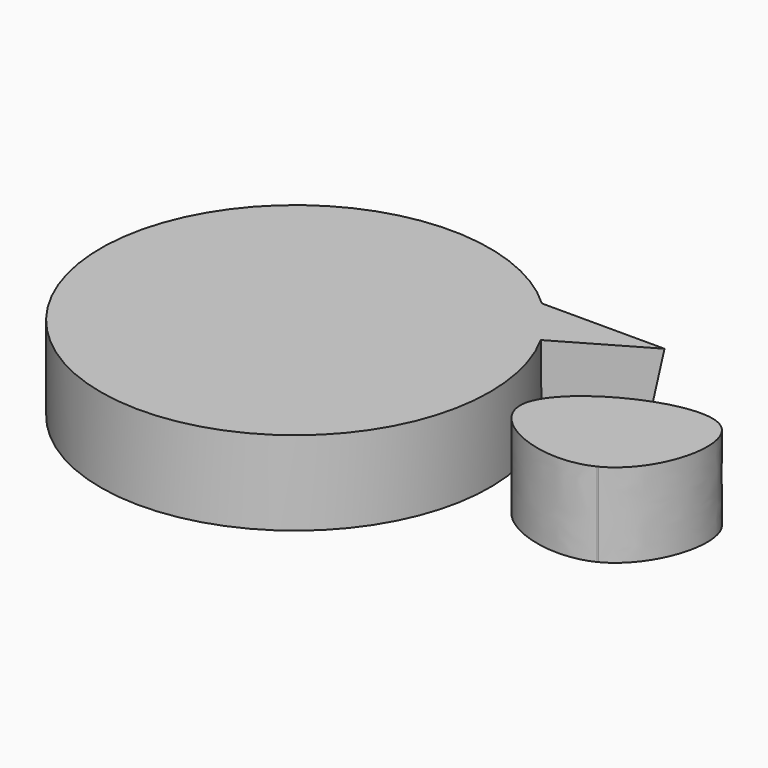
from build123d import *

# Parameters (mm, degrees)
F1_DEPTH = 25.4
F1_TAPER = -3
F2_R     = 58.8161051618
F3_DEPTH = 25.4
F5_DEPTH = 25.4


with BuildPart() as f1:
    # F0 (on Top) → F1 (new body)
    with BuildSketch(Plane.XY):
        Polygon((72.1950531006, 41.6988953948), (21.782964468, 41.6988953948), (0, 0), align=None)
    extrude(amount=F1_DEPTH, taper=F1_TAPER)

    # F2 (on Top) → F3 (join)
    with BuildSketch(Plane.XY):
        Circle(F2_R)
    extrude(amount=F3_DEPTH)


with BuildPart() as f5:
    # F4 (on Top) → F5 (new body)
    with BuildSketch(Plane.XY):
        with BuildLine():
            add(Edge.make_bspline(
                [(102.3487746519, -13.9289051389), (90.9438132493, -19.4379005678), (68.8603634249, -2.8386279957), (68.6699151955, 2.9e-09)],
                knots=[0.5089518547, 0.5089518547, 0.5089518547, 0.5089518547, 0.7802595866, 0.7802595866, 0.7802595866, 0.7802595866], degree=3))
            add(Edge.make_bspline(
                [(68.6699151993, 0), (67.5902988731, -11.1450596771), (88.9771118669, -20.5400376345), (102.3487746716, -13.9289051294)],
                knots=[0, 0, 0, 0, 0.3185429266, 0.3185429266, 0.3185429266, 0.3185429266], degree=3))
        make_face()
        with BuildLine():
            add(Edge.make_bspline(
                [(68.6699151993, 0), (68.6658465147, 0.0606436807), (68.6717699918, 0.1150068803), (68.6873421872, 0.1634600038)],
                knots=[0.7802595866, 0.7802595866, 0.7802595866, 0.7802595866, 0.7860557316, 0.7860557316, 0.7860557316, 0.7860557316], degree=3))
            add(Edge.make_bspline(
                [(68.6873421872, 0.1634600038), (68.6809995803, 0.1089328226), (68.6751893103, 0.0544455286), (68.6699151993, 0)],
                knots=[0.9984438632, 0.9984438632, 0.9984438632, 0.9984438632, 1, 1, 1, 1], degree=3))
        make_face()
        with BuildLine():
            add(Edge.make_bspline(
                [(68.6873421872, 0.1634600038), (68.6809995803, 0.1089328226), (68.6751893103, 0.0544455286), (68.6699151993, 0)],
                knots=[0.9984438632, 0.9984438632, 0.9984438632, 0.9984438632, 1, 1, 1, 1], degree=3))
            add(Edge.make_bspline(
                [(102.3487746519, -13.9289051389), (90.9438132493, -19.4379005678), (68.8603634249, -2.8386279957), (68.6699151955, 2.9e-09)],
                knots=[0.5089518547, 0.5089518547, 0.5089518547, 0.5089518547, 0.7802595866, 0.7802595866, 0.7802595866, 0.7802595866], degree=3))
            add(Edge.make_bspline(
                [(102.3487746716, -13.9289051294), (102.463249954, -13.8723069881), (102.5771377954, -13.8145357377), (102.6904337673, -13.7556119854)],
                knots=[0.3185429266, 0.3185429266, 0.3185429266, 0.3185429266, 0.321269984, 0.321269984, 0.321269984, 0.321269984], degree=3))
            add(Edge.make_bspline(
                [(111.4961206965, 20.9973230922), (114.443001781, 18.9594226446), (113.7154739438, -7.8936603848), (102.6904337671, -13.7556119915)],
                knots=[0.2389176353, 0.2389176353, 0.2389176353, 0.2389176353, 0.5062169032, 0.5062169032, 0.5062169032, 0.5062169032], degree=3))
            add(Edge.make_bspline(
                [(111.4961206913, 20.9973230958), (111.4706057422, 21.0131450489), (111.4449840026, 21.0288485478), (111.4192560928, 21.0444338975)],
                knots=[0.6355906198, 0.6355906198, 0.6355906198, 0.6355906198, 0.6364394283, 0.6364394283, 0.6364394283, 0.6364394283], degree=3))
            add(Edge.make_bspline(
                [(92.5777554512, 0), (103.1894933654, 4.768783262), (108.7544603715, 22.4735331076), (111.4192560928, 21.0444338975)],
                knots=[0, 0, 0, 0, 0.2366183341, 0.2366183341, 0.2366183341, 0.2366183341], degree=3))
            add(Edge.make_bspline(
                [(68.6873421872, 0.1634600038), (69.2621349119, 1.9519363241), (82.9828924293, -4.3118123111), (92.5777554512, 0)],
                knots=[0.7860557316, 0.7860557316, 0.7860557316, 0.7860557316, 1, 1, 1, 1], degree=3))
        make_face()
        with BuildLine():
            add(Edge.make_bspline(
                [(102.3487746716, -13.9289051294), (102.463249954, -13.8723069881), (102.5771377954, -13.8145357377), (102.6904337673, -13.7556119854)],
                knots=[0.3185429266, 0.3185429266, 0.3185429266, 0.3185429266, 0.321269984, 0.321269984, 0.321269984, 0.321269984], degree=3))
            add(Edge.make_bspline(
                [(102.6904337673, -13.7556119854), (102.5776278097, -13.8155902761), (102.4637437995, -13.8733710177), (102.3487746519, -13.9289051389)],
                knots=[0.5062169032, 0.5062169032, 0.5062169032, 0.5062169032, 0.5089518547, 0.5089518547, 0.5089518547, 0.5089518547], degree=3))
        make_face()
        with BuildLine():
            add(Edge.make_bspline(
                [(111.4192560928, 21.0444338975), (100.4466781249, 27.6913580091), (70.1628241383, 12.8481293776), (68.6873421872, 0.1634600038)],
                knots=[0.6364394283, 0.6364394283, 0.6364394283, 0.6364394283, 0.9984438632, 0.9984438632, 0.9984438632, 0.9984438632], degree=3))
            add(Edge.make_bspline(
                [(68.6873421872, 0.1634600038), (69.2621349119, 1.9519363241), (82.9828924293, -4.3118123111), (92.5777554512, 0)],
                knots=[0.7860557316, 0.7860557316, 0.7860557316, 0.7860557316, 1, 1, 1, 1], degree=3))
            add(Edge.make_bspline(
                [(92.5777554512, 0), (103.1894933654, 4.768783262), (108.7544603715, 22.4735331076), (111.4192560928, 21.0444338975)],
                knots=[0, 0, 0, 0, 0.2366183341, 0.2366183341, 0.2366183341, 0.2366183341], degree=3))
        make_face()
        with BuildLine():
            add(Edge.make_bspline(
                [(111.4961206965, 20.9973230922), (114.443001781, 18.9594226446), (113.7154739438, -7.8936603848), (102.6904337671, -13.7556119915)],
                knots=[0.2389176353, 0.2389176353, 0.2389176353, 0.2389176353, 0.5062169032, 0.5062169032, 0.5062169032, 0.5062169032], degree=3))
            add(Edge.make_bspline(
                [(102.6904337673, -13.7556119854), (115.7489276571, -6.9640602047), (120.9445121969, 15.1383262128), (111.4961206913, 20.9973230958)],
                knots=[0.321269984, 0.321269984, 0.321269984, 0.321269984, 0.6355906198, 0.6355906198, 0.6355906198, 0.6355906198], degree=3))
        make_face()
        with BuildLine():
            add(Edge.make_bspline(
                [(111.4192560928, 21.0444338975), (111.4451508227, 21.0305468525), (111.4707717016, 21.0148530591), (111.4961206965, 20.9973230922)],
                knots=[0.2366183341, 0.2366183341, 0.2366183341, 0.2366183341, 0.2389176353, 0.2389176353, 0.2389176353, 0.2389176353], degree=3))
            add(Edge.make_bspline(
                [(111.4961206913, 20.9973230958), (111.4706057422, 21.0131450489), (111.4449840026, 21.0288485478), (111.4192560928, 21.0444338975)],
                knots=[0.6355906198, 0.6355906198, 0.6355906198, 0.6355906198, 0.6364394283, 0.6364394283, 0.6364394283, 0.6364394283], degree=3))
        make_face()
    extrude(amount=F5_DEPTH)


solid = Compound([f1.part, f5.part])
